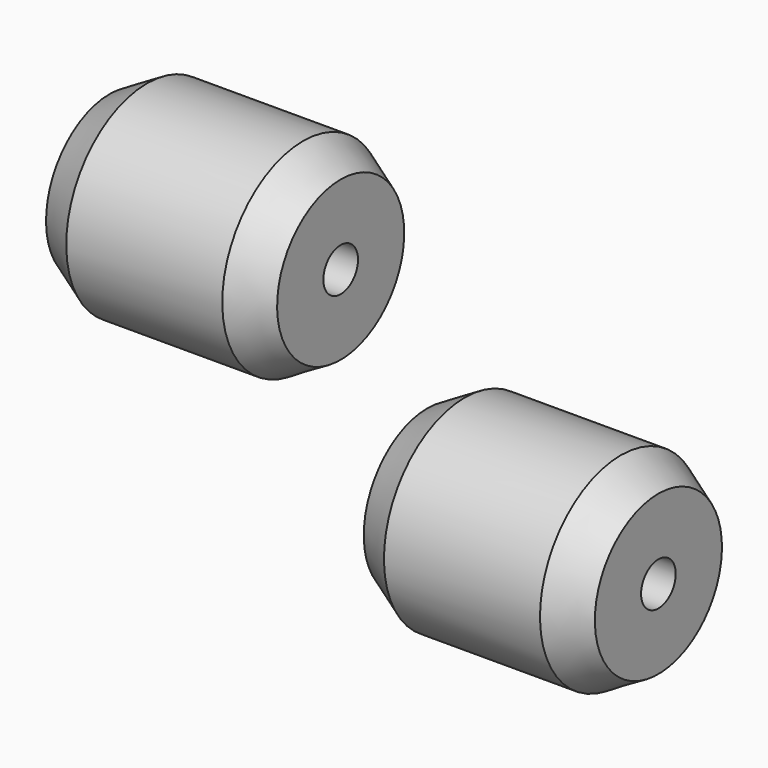
from build123d import *

# Parameters (mm, degrees)
F3_R     = 4.7625
F4_DEPTH = 120.651


with BuildPart() as f1:
    # F0 (on Front) → F1 (revolve)
    with BuildSketch(Plane.XZ):
        Polygon((0, 17.4625), (0, 0), (50.8, 0), (50.8, 17.4625), (42.551108, 22.225), (8.248892, 22.225), align=None)
    revolve(axis=Axis((25.4, 0, 0), (1, 0, 0)))


with BuildPart() as f2:
    # F0 (on Front) → F2 (revolve)
    with BuildSketch(Plane.XZ):
        Polygon((69.85, -20.6375), (69.85, -38.1), (120.65, -38.1), (120.65, -20.6375), (112.401108, -15.875), (78.098892, -15.875), align=None)
    revolve(axis=Axis((95.25, 0, -38.1), (1, 0, 0)))


with BuildPart() as f4_tool:
    # F3 (on face) → F4 (new body, through all)
    with BuildSketch(Plane(origin=(0, 0, 0), x_dir=(0, -1, 0), z_dir=(-1, 0, 0))):
        Circle(F3_R)
        with Locations((0, -38.1)):
            Circle(F3_R)
    extrude(amount=-F4_DEPTH)


with BuildPart() as f1_1:
    add(f1.part)

    # F4: cut by f4_tool
    add(f4_tool.part, mode=Mode.SUBTRACT)


with BuildPart() as f2_1:
    add(f2.part)

    # F4: cut by f4_tool
    add(f4_tool.part, mode=Mode.SUBTRACT)


solid = Compound([f1_1.part, f2_1.part])
